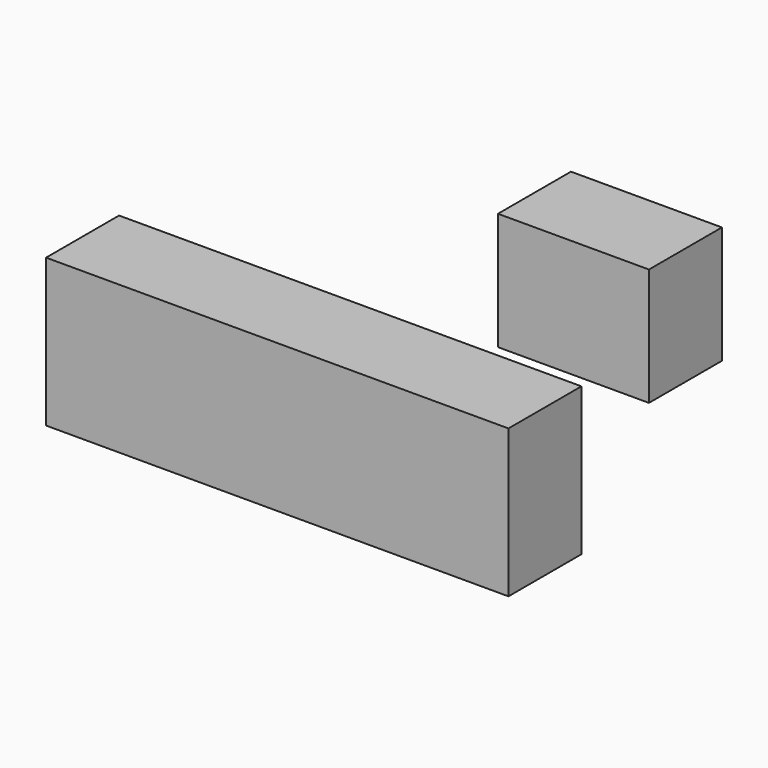
from build123d import *

# Parameters (mm, degrees)
F0_W     = 128.775224
F0_H     = 41.17303
F0_W_2   = 42.04905
F0_H_2   = 32.704815
F1_DEPTH = 25.4


with BuildPart() as f1:
    # F0 (on Front) → F1 (new body)
    with BuildSketch(Plane.XZ):
        Rectangle(F0_W, F0_H)
        with Locations((82.492061, 55.919398)):
            Rectangle(F0_W_2, F0_H_2)
    extrude(amount=F1_DEPTH)


solid = f1.part
